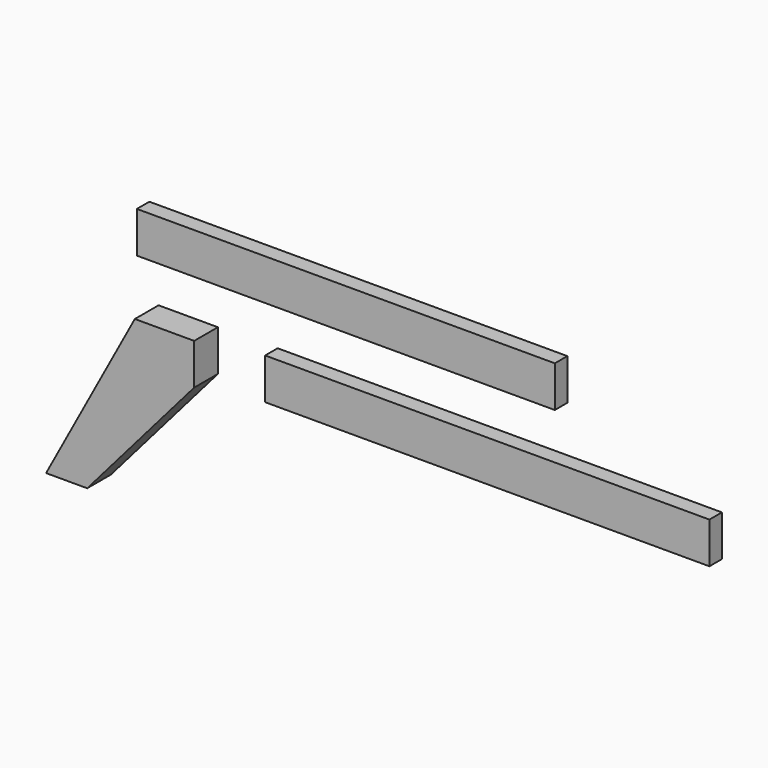
from build123d import *

# Parameters (mm, degrees)
F1_DEPTH = 36
F2_W     = 540
F2_H     = 50
F3_DEPTH = 19
F4_W     = 508
F4_H     = 50
F5_DEPTH = 19


with BuildPart() as f1:
    # F0 (on Front) → F1 (new body)
    with BuildSketch(Plane.XZ):
        Polygon((58.995539, 99.127246), (-13.109745, 99.127246), (-121.004461, -100.872754), (-71.004461, -100.872754), (58.995539, 49.127246), align=None)
    extrude(amount=F1_DEPTH)


with BuildPart() as f3:
    # F2 (on Front) → F3 (new body)
    with BuildSketch(Plane.XZ):
        with Locations((401.626309, 75.236866)):
            Rectangle(F2_W, F2_H)
    extrude(amount=F3_DEPTH)


with BuildPart() as f5:
    # F4 (on Front) → F5 (new body)
    with BuildSketch(Plane.XZ):
        with Locations((229.73565, 181.347743)):
            Rectangle(F4_W, F4_H)
    extrude(amount=F5_DEPTH)


solid = Compound([f1.part, f3.part, f5.part])
